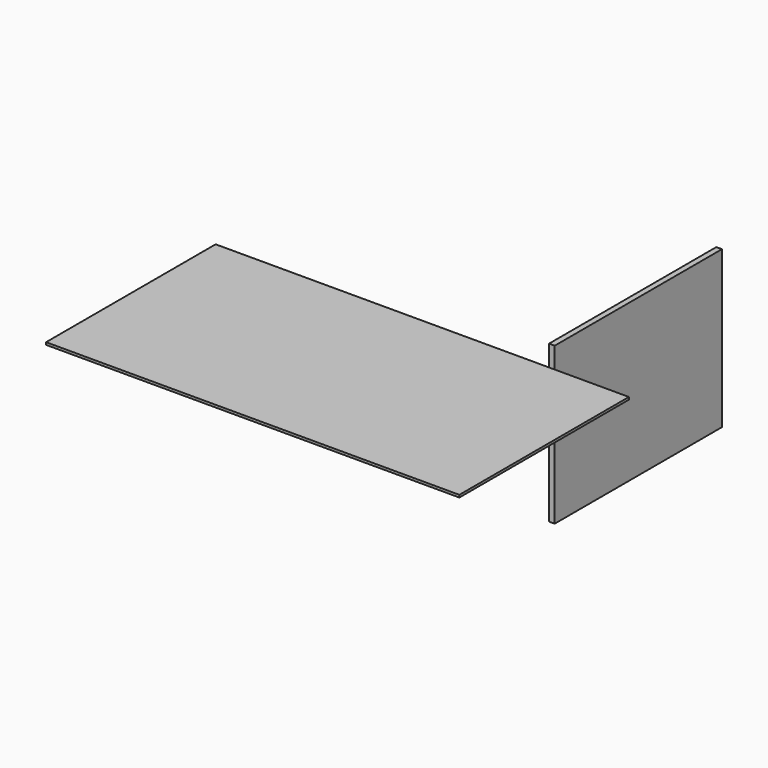
from build123d import *

# Parameters (mm, degrees)
F0_W     = 130.355321
F0_H     = 66.852495
F1_DEPTH = 0.762
F2_W     = 65.933623
F2_H     = 49.430937
F3_DEPTH = 1.778


with BuildPart() as f1:
    # F0 (on Top) → F1 (new body)
    with BuildSketch(Plane.XY):
        with Locations((11.98097, -33.426247)):
            Rectangle(F0_W, F0_H)
    extrude(amount=F1_DEPTH)


with BuildPart() as f3:
    # F2 (on Right) → F3 (new body)
    with BuildSketch(Plane.YZ):
        with Locations((100.152355, -62.122636)):
            Rectangle(F2_W, F2_H)
    extrude(amount=-F3_DEPTH)


solid = Compound([f1.part, f3.part])
